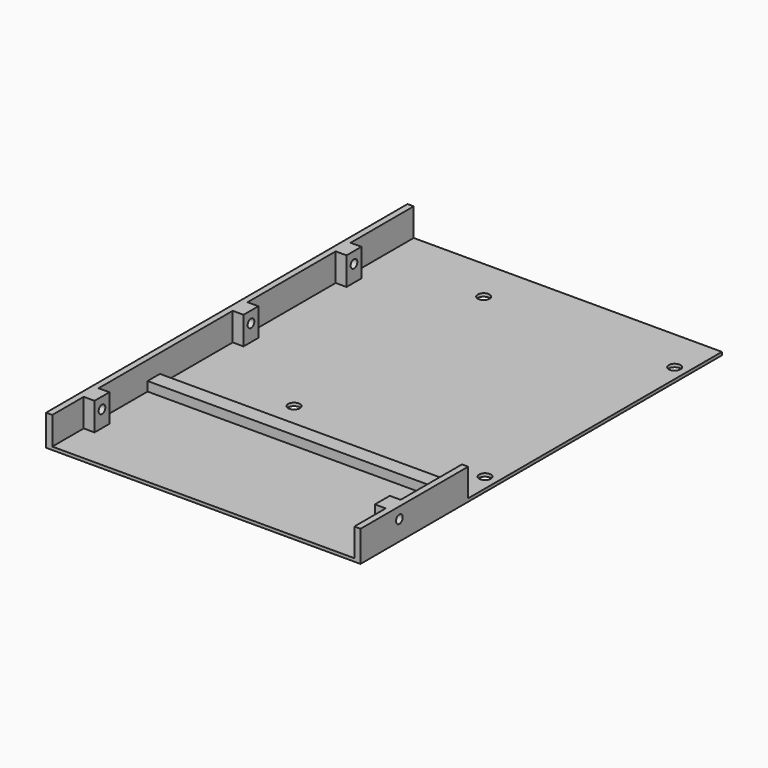
from build123d import *

# Parameters (mm, degrees)
F0_W      = 101.61
F0_H      = 146
F1_DEPTH  = 1
F3_W      = 2
F3_H      = 146
F3_H_2    = 43.5
F4_DEPTH  = 9
F5_W      = 97.61
F5_H      = 5
F6_DEPTH  = 3
F9_W      = 5.5
F9_H      = 6
F10_DEPTH = 9
F11_D     = 2.7051
F12_D     = 3.7973


with BuildPart() as f1:
    # F0 (on Top) → F1 (new body)
    with BuildSketch(Plane.XY):
        with Locations((-50.805, -73)):
            Rectangle(F0_W, F0_H)
    extrude(amount=-F1_DEPTH)

    # F3 (on Top) → F4 (join)
    with BuildSketch(Plane.XY):
        with Locations((-100.61, -73)):
            Rectangle(F3_W, F3_H)
        with Locations((-1, -124.25)):
            Rectangle(F3_W, F3_H_2)
    extrude(amount=F4_DEPTH)

    # F5 (on face) → F6 (join)
    with BuildSketch(Plane.XY):
        with Locations((-50.805, -105)):
            Rectangle(F5_W, F5_H)
    extrude(amount=F6_DEPTH)

    # F9 (on face) → F10 (join, through all)
    with BuildSketch(Plane.XY):
        with Locations((-98.86, -130.3)):
            Rectangle(F9_W, F9_H)
        with Locations((-98.86, -70.11)):
            Rectangle(F9_W, F9_H)
        with Locations((-98.86, -28.5)):
            Rectangle(F9_W, F9_H)
        with Locations((-2.75, -130.3)):
            Rectangle(F9_W, F9_H)
    extrude(amount=F10_DEPTH)

    # F11 (through all)
    with Locations(Plane(origin=(-101.61, 0, 0), x_dir=(0, -1, 0), z_dir=(-1, 0, 0))):
        with Locations((28.5, 5.35), (70.11, 5.35), (130.3, 5.35)):
            Hole(F11_D / 2)

    # F12 (through all)
    with Locations(Plane.XY):
        with Locations((-65.785, -90.6), (-4.065, -90.6), (-4.065, -14), (-65.785, -14)):
            Hole(F12_D / 2)


solid = f1.part
